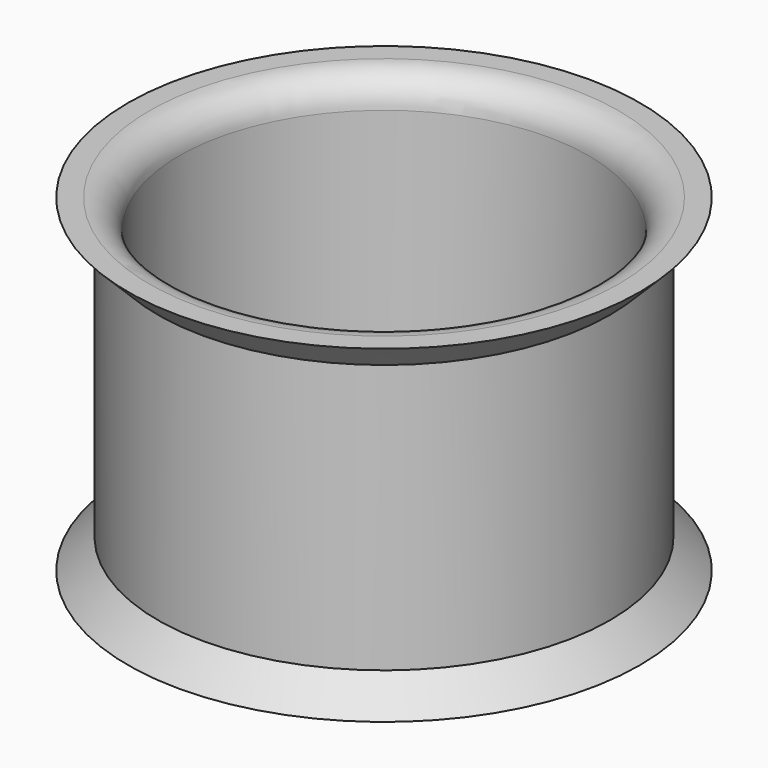
from build123d import *

# Parameters (mm, degrees)
F2_R     = 26.5
F2_R_2   = 24
F3_DEPTH = 38.5
F7_R     = 3.5


with BuildPart() as f3:
    # F2 (on Top) → F3 (new body)
    with BuildSketch(Plane.XY):
        Circle(F2_R)
        Circle(F2_R_2, mode=Mode.SUBTRACT)
    extrude(amount=F3_DEPTH)

    # F4 (on Right) → F5 (revolve)
    with BuildSketch(Plane.YZ):
        Polygon((-30, 38.5), (-26.5, 35), (-26.5, 38.5), align=None)
    revolve(axis=Axis((0, 0, 19.25), (0, 0, -1)))

    # F7
    f7_edges = [f3.edges().sort_by_distance(p)[0] for p in [
        (-24, 0, 38.5),
    ]]
    fillet(f7_edges, radius=F7_R)


with BuildPart() as f6:
    # F4 (on Right) → F6 (revolve)
    with BuildSketch(Plane.YZ):
        Polygon((-30, 0), (-26.5, 0), (-26.5, 3.5), align=None)
    revolve(axis=Axis((0, 0, 0), (0, 0, -1)))


solid = Compound([f3.part, f6.part])
